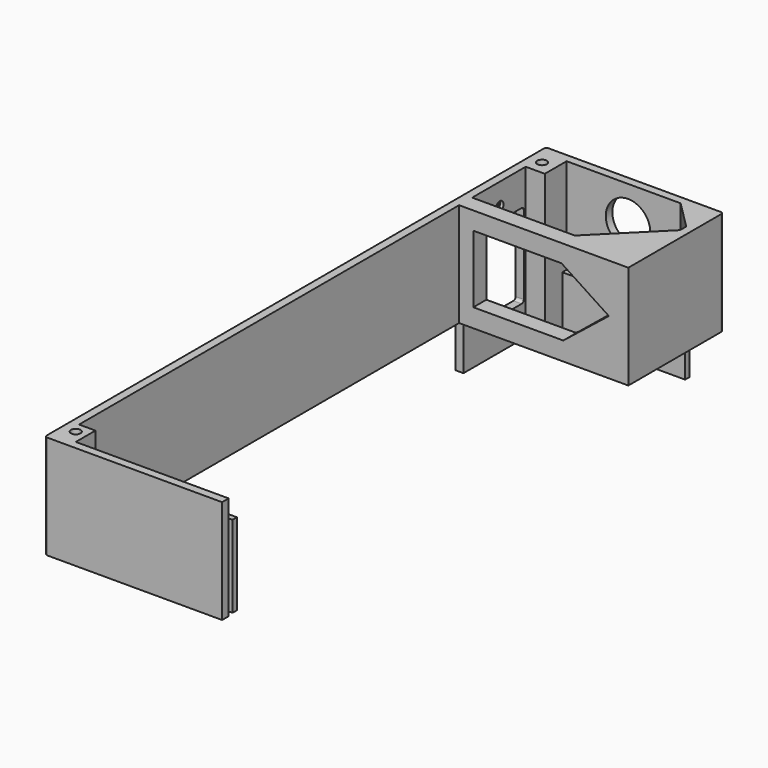
from build123d import *

# Parameters (mm, degrees)
SKETCH068_R     = 1.75
PAD032_DEPTH    = 38
SKETCH069_R     = 1.75
PAD033_DEPTH    = 17
PAD034_DEPTH    = 3
SKETCH070_R     = 1.75
POCKET031_DEPTH = 5
SKETCH072_R     = 8.15
POCKET033_DEPTH = 5
POCKET034_DEPTH = 16.5
CHAMFER007_SIZE = 1.75
PAD050_DEPTH    = 30


with BuildPart() as part:
    # Sketch068 (on DatumPlane) → Pad032 (new body)
    with BuildSketch(Plane.XY.offset(20)):
        with BuildLine():
            Line((1, 0), (65, 0))
            Line((65, 0), (65, 3))
            Line((65, 3), (9, 3))
            Line((9, 3), (9, 12))
            Line((9, 12), (3, 12))
            Line((3, 186), (3, 12))
            Line((65, 186), (3, 186))
            Line((65, 228.5), (65, 186))
            ThreePointArc((65, 228.5), (64.707107, 229.207107), (64, 229.5))
            Line((64, 229.5), (1, 229.5))
            ThreePointArc((1, 229.5), (0.292893, 229.207107), (0, 228.5))
            Line((0, 228.5), (0, 1))
            ThreePointArc((0, 1), (0.292893, 0.292893), (1, 0))
        make_face()
        with Locations((5, 8)):
            Circle(SKETCH068_R, mode=Mode.SUBTRACT)
        with Locations((5, 221.5)):
            Circle(SKETCH068_R, mode=Mode.SUBTRACT)
        Polygon((3, 192), (40.599928, 192), (62, 213.400072), (62, 216.254001), (51.754001, 226.5), (10, 226.5), (10, 216.5), (3, 216.5), align=None, mode=Mode.SUBTRACT)
    extrude(amount=PAD032_DEPTH)

    # Sketch069 (on DatumPlane) → Pad033 (join)
    with BuildSketch(Plane.XY.offset(20)):
        Polygon((0, 226.5), (0, 188), (3, 188), (3, 216.5), (10, 216.5), (10, 224.5), (55, 224.5), (55, 226.5), (10, 226.5), align=None)
        with Locations((5, 221.5)):
            Circle(SKETCH069_R, mode=Mode.SUBTRACT)
    extrude(amount=-PAD033_DEPTH)

    # Sketch069 (on DatumPlane) → Pad034 (join)
    with BuildSketch(Plane.XY.offset(20)):
        Polygon((0, 226.5), (0, 188), (3, 188), (3, 216.5), (10, 216.5), (10, 224.5), (55, 224.5), (55, 226.5), (10, 226.5), align=None)
        with Locations((5, 221.5)):
            Circle(SKETCH069_R, mode=Mode.SUBTRACT)
    extrude(amount=PAD034_DEPTH)

    # Sketch070 → Pocket031 (cut)
    with BuildSketch(Plane.YZ):
        with Locations((204.62, 50)):
            Circle(SKETCH070_R)
        with Locations((204.62, 10)):
            Circle(SKETCH070_R)
        with BuildLine():
            Line((194.62, 14.55), (214.62, 14.55))
            ThreePointArc((214.62, 14.55), (215.327107, 14.842893), (215.62, 15.55))
            Line((215.62, 15.55), (215.62, 44.45))
            ThreePointArc((215.62, 44.45), (215.327107, 45.157107), (214.62, 45.45))
            Line((214.62, 45.45), (194.62, 45.45))
            ThreePointArc((194.62, 45.45), (193.912893, 45.157107), (193.62, 44.45))
            Line((193.62, 44.45), (193.62, 15.55))
            ThreePointArc((193.62, 15.55), (193.912893, 14.842893), (194.62, 14.55))
        make_face()
    extrude(amount=POCKET031_DEPTH, mode=Mode.SUBTRACT)

    # Sketch072 (on DatumPlane) → Pocket033 (cut)
    with BuildSketch(Plane.XZ.offset(-229.5)):
        with Locations((32.5, 45)):
            Circle(SKETCH072_R)
    extrude(amount=POCKET033_DEPTH, mode=Mode.SUBTRACT)

    # Sketch073 (on DatumPlane) → Pocket034 (cut, symmetric)
    with BuildSketch(Plane.XZ.offset(-188)):
        Polygon((8.211473, 51.471827), (8.211473, 26.775664), (41.168469, 26.775664), (57.867441, 40.093213), (40.500886, 51.471827), align=None)
    extrude(amount=POCKET034_DEPTH, both=True, mode=Mode.SUBTRACT)

    # Chamfer007
    chamfer007_edges = [part.edges().sort_by_distance(p)[0] for p in [
        (0, 202.87, 50),
        (0, 202.87, 10),
    ]]
    chamfer(chamfer007_edges, length=CHAMFER007_SIZE)

    # Sketch092 (on DatumPlane) → Pad050 (join)
    with BuildSketch(Plane.XY.offset(20)):
        Polygon((59.5, 2.95), (59.5, 5.35), (64.550262, 5.35), (64.550262, 7.35), (57.181149, 7.35), (43.385918, 2.95), align=None)
    extrude(amount=PAD050_DEPTH)


solid = part.part
